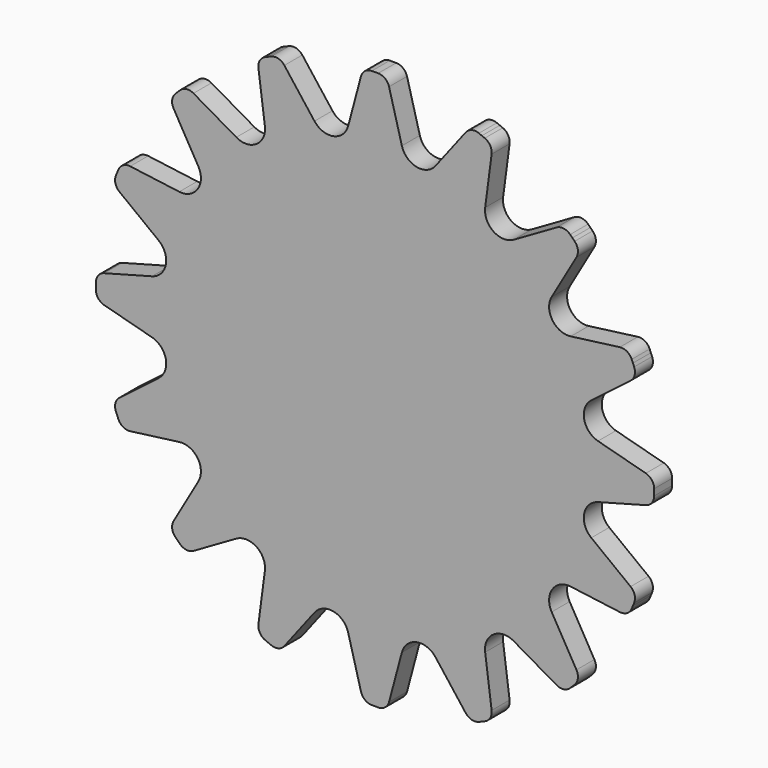
from build123d import *

# Parameters (mm, degrees)
F1_DEPTH = 2.54


with BuildPart() as f1:
    # F0 (on Front) → F1 (new body)
    with BuildSketch(Plane.XZ):
        with BuildLine():
            Line((-1.5875, 30.622215), (-3.036757, 25.213515))
            ThreePointArc((-3.036757, 25.213515), (-4.704564, 23.651443), (-6.843197, 24.456367))
            Line((-6.843197, 24.456367), (-10.251956, 28.898748))
            ThreePointArc((-10.251956, 28.898748), (-10.930814, 29.352346), (-11.745522, 29.298948))
            Line((-11.745522, 29.298948), (-12.078834, 29.160885))
            Line((-12.078834, 29.160885), (-12.412146, 29.022823))
            ThreePointArc((-12.412146, 29.022823), (-13.02599, 28.484496), (-13.185273, 27.683728))
            Line((-13.185273, 27.683728), (-12.454392, 22.132134))
            ThreePointArc((-12.454392, 22.132134), (-13.397466, 20.050725), (-15.681336, 19.975959))
            Line((-15.681336, 19.975959), (-20.530644, 22.775708))
            ThreePointArc((-20.530644, 22.775708), (-21.331412, 22.934991), (-22.06367, 22.573881))
            Line((-22.06367, 22.573881), (-22.318775, 22.318775))
            Line((-22.318775, 22.318775), (-22.573881, 22.06367))
            ThreePointArc((-22.573881, 22.06367), (-22.934991, 21.331412), (-22.775708, 20.530644))
            Line((-22.775708, 20.530644), (-19.975959, 15.681336))
            ThreePointArc((-19.975959, 15.681336), (-20.050725, 13.397466), (-22.132134, 12.454392))
            Line((-22.132134, 12.454392), (-27.683728, 13.185273))
            ThreePointArc((-27.683728, 13.185273), (-28.484496, 13.02599), (-29.022823, 12.412146))
            Line((-29.022823, 12.412146), (-29.160885, 12.078834))
            Line((-29.160885, 12.078834), (-29.298948, 11.745522))
            ThreePointArc((-29.298948, 11.745522), (-29.352346, 10.930814), (-28.898748, 10.251956))
            Line((-28.898748, 10.251956), (-24.456367, 6.843197))
            ThreePointArc((-24.456367, 6.843197), (-23.651443, 4.704564), (-25.213515, 3.036757))
            Line((-25.213515, 3.036757), (-30.622215, 1.5875))
            ThreePointArc((-30.622215, 1.5875), (-31.301074, 1.133901), (-31.563515, 0.360774))
            Line((-31.563515, 0.360774), (-31.563515, 0))
            Line((-31.563515, 0), (-31.563515, -0.360774))
            ThreePointArc((-31.563515, -0.360774), (-31.301074, -1.133901), (-30.622215, -1.5875))
            Line((-30.622215, -1.5875), (-25.213515, -3.036757))
            ThreePointArc((-25.213515, -3.036757), (-23.651443, -4.704564), (-24.456367, -6.843197))
            Line((-24.456367, -6.843197), (-28.898748, -10.251956))
            ThreePointArc((-28.898748, -10.251956), (-29.352346, -10.930814), (-29.298948, -11.745522))
            Line((-29.298948, -11.745522), (-29.160885, -12.078834))
            Line((-29.160885, -12.078834), (-29.022823, -12.412146))
            ThreePointArc((-29.022823, -12.412146), (-28.484496, -13.02599), (-27.683728, -13.185273))
            Line((-27.683728, -13.185273), (-22.132134, -12.454392))
            ThreePointArc((-22.132134, -12.454392), (-20.050725, -13.397466), (-19.975959, -15.681336))
            Line((-19.975959, -15.681336), (-22.775708, -20.530644))
            ThreePointArc((-22.775708, -20.530644), (-22.934991, -21.331412), (-22.573881, -22.06367))
            Line((-22.573881, -22.06367), (-22.318775, -22.318775))
            Line((-22.318775, -22.318775), (-22.06367, -22.573881))
            ThreePointArc((-22.06367, -22.573881), (-21.331412, -22.934991), (-20.530644, -22.775708))
            Line((-20.530644, -22.775708), (-15.681336, -19.975959))
            ThreePointArc((-15.681336, -19.975959), (-13.397466, -20.050725), (-12.454392, -22.132134))
            Line((-12.454392, -22.132134), (-13.185273, -27.683728))
            ThreePointArc((-13.185273, -27.683728), (-13.02599, -28.484496), (-12.412146, -29.022823))
            Line((-12.412146, -29.022823), (-12.078834, -29.160885))
            Line((-12.078834, -29.160885), (-11.745522, -29.298948))
            ThreePointArc((-11.745522, -29.298948), (-10.930814, -29.352346), (-10.251956, -28.898748))
            Line((-10.251956, -28.898748), (-6.843197, -24.456367))
            ThreePointArc((-6.843197, -24.456367), (-4.704564, -23.651443), (-3.036757, -25.213515))
            Line((-3.036757, -25.213515), (-1.5875, -30.622215))
            ThreePointArc((-1.5875, -30.622215), (-1.133901, -31.301074), (-0.360774, -31.563515))
            Line((-0.360774, -31.563515), (0, -31.563515))
            Line((0, -31.563515), (0.360774, -31.563515))
            ThreePointArc((0.360774, -31.563515), (1.133901, -31.301074), (1.5875, -30.622215))
            Line((1.5875, -30.622215), (3.036757, -25.213515))
            ThreePointArc((3.036757, -25.213515), (4.704564, -23.651443), (6.843197, -24.456367))
            Line((6.843197, -24.456367), (10.251956, -28.898748))
            ThreePointArc((10.251956, -28.898748), (10.930814, -29.352346), (11.745522, -29.298948))
            Line((11.745522, -29.298948), (12.078834, -29.160885))
            Line((12.078834, -29.160885), (12.412146, -29.022823))
            ThreePointArc((12.412146, -29.022823), (13.02599, -28.484496), (13.185273, -27.683728))
            Line((13.185273, -27.683728), (12.454392, -22.132134))
            ThreePointArc((12.454392, -22.132134), (13.397466, -20.050725), (15.681336, -19.975959))
            Line((15.681336, -19.975959), (20.530644, -22.775708))
            ThreePointArc((20.530644, -22.775708), (21.331412, -22.934991), (22.06367, -22.573881))
            Line((22.06367, -22.573881), (22.318775, -22.318775))
            Line((22.318775, -22.318775), (22.573881, -22.06367))
            ThreePointArc((22.573881, -22.06367), (22.934991, -21.331412), (22.775708, -20.530644))
            Line((22.775708, -20.530644), (19.975959, -15.681336))
            ThreePointArc((19.975959, -15.681336), (20.050725, -13.397466), (22.132134, -12.454392))
            Line((22.132134, -12.454392), (27.683728, -13.185273))
            ThreePointArc((27.683728, -13.185273), (28.484496, -13.02599), (29.022823, -12.412146))
            Line((29.022823, -12.412146), (29.160885, -12.078834))
            Line((29.160885, -12.078834), (29.298948, -11.745522))
            ThreePointArc((29.298948, -11.745522), (29.352346, -10.930814), (28.898748, -10.251956))
            Line((28.898748, -10.251956), (24.456367, -6.843197))
            ThreePointArc((24.456367, -6.843197), (23.651443, -4.704564), (25.213515, -3.036757))
            Line((25.213515, -3.036757), (30.622215, -1.5875))
            ThreePointArc((30.622215, -1.5875), (31.301074, -1.133901), (31.563515, -0.360774))
            Line((31.563515, -0.360774), (31.563515, 0))
            Line((31.563515, 0), (31.563515, 0.360774))
            ThreePointArc((31.563515, 0.360774), (31.301074, 1.133901), (30.622215, 1.5875))
            Line((30.622215, 1.5875), (25.213515, 3.036757))
            ThreePointArc((25.213515, 3.036757), (23.651443, 4.704564), (24.456367, 6.843197))
            Line((24.456367, 6.843197), (28.898748, 10.251956))
            ThreePointArc((28.898748, 10.251956), (29.352346, 10.930814), (29.298948, 11.745522))
            Line((29.298948, 11.745522), (29.160885, 12.078834))
            Line((29.160885, 12.078834), (29.022823, 12.412146))
            ThreePointArc((29.022823, 12.412146), (28.484496, 13.02599), (27.683728, 13.185273))
            Line((27.683728, 13.185273), (22.132134, 12.454392))
            ThreePointArc((22.132134, 12.454392), (20.050725, 13.397466), (19.975959, 15.681336))
            Line((19.975959, 15.681336), (22.775708, 20.530644))
            ThreePointArc((22.775708, 20.530644), (22.934991, 21.331412), (22.573881, 22.06367))
            Line((22.573881, 22.06367), (22.318775, 22.318775))
            Line((22.318775, 22.318775), (22.06367, 22.573881))
            ThreePointArc((22.06367, 22.573881), (21.331412, 22.934991), (20.530644, 22.775708))
            Line((20.530644, 22.775708), (15.681336, 19.975959))
            ThreePointArc((15.681336, 19.975959), (13.397466, 20.050725), (12.454392, 22.132134))
            Line((12.454392, 22.132134), (13.185273, 27.683728))
            ThreePointArc((13.185273, 27.683728), (13.02599, 28.484496), (12.412146, 29.022823))
            Line((12.412146, 29.022823), (12.078834, 29.160885))
            Line((12.078834, 29.160885), (11.745522, 29.298948))
            ThreePointArc((11.745522, 29.298948), (10.930814, 29.352346), (10.251956, 28.898748))
            Line((10.251956, 28.898748), (6.843197, 24.456367))
            ThreePointArc((6.843197, 24.456367), (4.704564, 23.651443), (3.036757, 25.213515))
            Line((3.036757, 25.213515), (1.5875, 30.622215))
            ThreePointArc((1.5875, 30.622215), (1.133901, 31.301074), (0.360774, 31.563515))
            Line((0.360774, 31.563515), (0, 31.563515))
            Line((0, 31.563515), (-0.360774, 31.563515))
            ThreePointArc((-0.360774, 31.563515), (-1.133901, 31.301074), (-1.5875, 30.622215))
        make_face()
    extrude(amount=F1_DEPTH)


solid = f1.part
